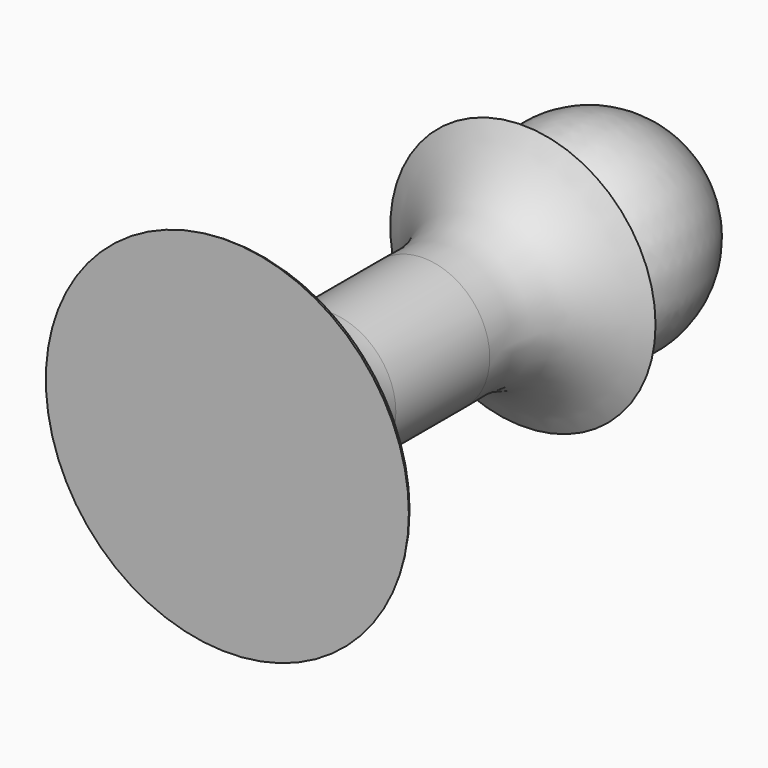
from build123d import *


with BuildPart() as f1:
    # F0 (on Top) → F1 (revolve)
    with BuildSketch(Plane.XY):
        with BuildLine():
            Line((19.731169, -1.502431), (9.248986, -1.502431))
            ThreePointArc((9.248986, -1.502431), (14.62393, 15.704194), (0, 26.244526))
            Line((0, 26.244526), (0, 10.82955))
            Line((0, 10.82955), (0, -1.502431))
            Line((0, -1.502431), (0, -4.585426))
            Line((0, -4.585426), (0, -20.000402))
            Line((0, -20.000402), (0, -37.457439))
            Line((0, -37.457439), (0, -52.457439))
            Line((0, -52.457439), (0, -56.457439))
            Line((0, -56.457439), (27, -56.457439))
            ThreePointArc((27, -56.457439), (25.771046, -55.084057), (24, -54.574247))
            Line((24, -54.574247), (20, -54.574247))
            Line((20, -54.574247), (20, -52.457439))
            ThreePointArc((20, -52.457439), (12.636659, -46.50877), (9.865585, -37.457439))
            Line((9.865585, -37.457439), (9.865585, -20.000402))
            add(Edge.make_bspline(
                [(19.731169, -1.502431), (10.514108, -6.392788), (9.345569, -12.90322), (9.865585, -20.000402)],
                knots=[0, 0, 0, 0, 20.964368, 20.964368, 20.964368, 20.964368], degree=3))
        make_face()
    revolve(axis=Axis((0, 10.82955, 0), (0, -1, 0)))


solid = f1.part
